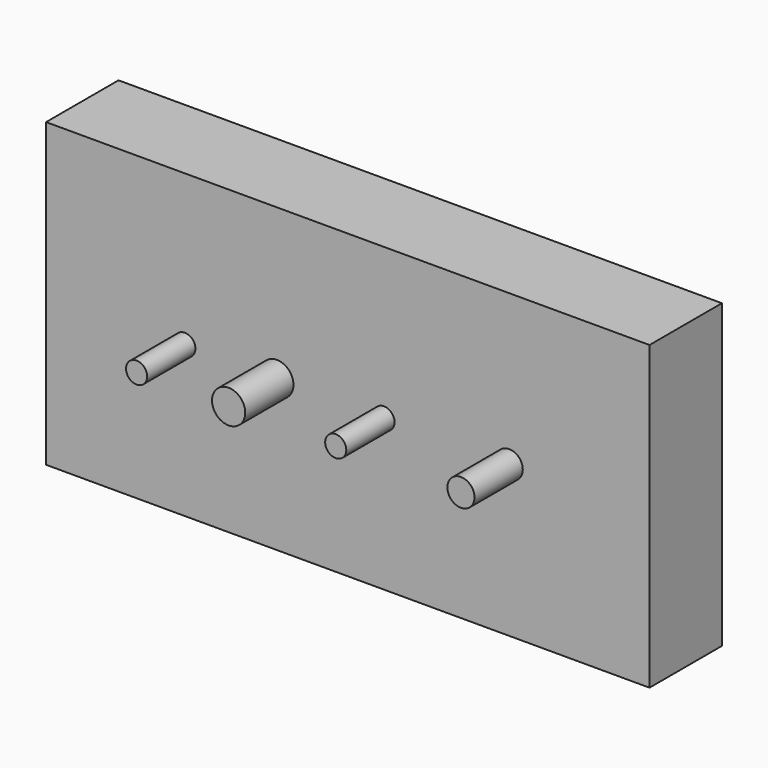
from build123d import *

# Parameters (mm, degrees)
F0_W     = 100
F0_H     = 50
F1_DEPTH = 15
F2_R     = 1.75
F3_DEPTH = 10
F4_R     = 2.75
F5_DEPTH = 10
F6_R     = 1.75
F7_DEPTH = 10
F8_R     = 2.25
F9_DEPTH = 10


with BuildPart() as f1:
    # F0 (on Front) → F1 (new body)
    with BuildSketch(Plane.XZ):
        Rectangle(F0_W, F0_H)
    extrude(amount=F1_DEPTH)

    # F2 (on face) → F3 (join)
    with BuildSketch(Plane.XZ.offset(15)):
        with Locations((-27, 0)):
            Circle(F2_R)
    extrude(amount=F3_DEPTH)

    # F4 (on face) → F5 (join)
    with BuildSketch(Plane.XZ.offset(15)):
        with Locations((-11.75, 0)):
            Circle(F4_R)
    extrude(amount=F5_DEPTH)

    # F6 (on face) → F7 (join)
    with BuildSketch(Plane.XZ.offset(15)):
        with Locations((6, 0)):
            Circle(F6_R)
    extrude(amount=F7_DEPTH)

    # F8 (on face) → F9 (join)
    with BuildSketch(Plane.XZ.offset(15)):
        with Locations((26.75, 0)):
            Circle(F8_R)
    extrude(amount=F9_DEPTH)


solid = f1.part
